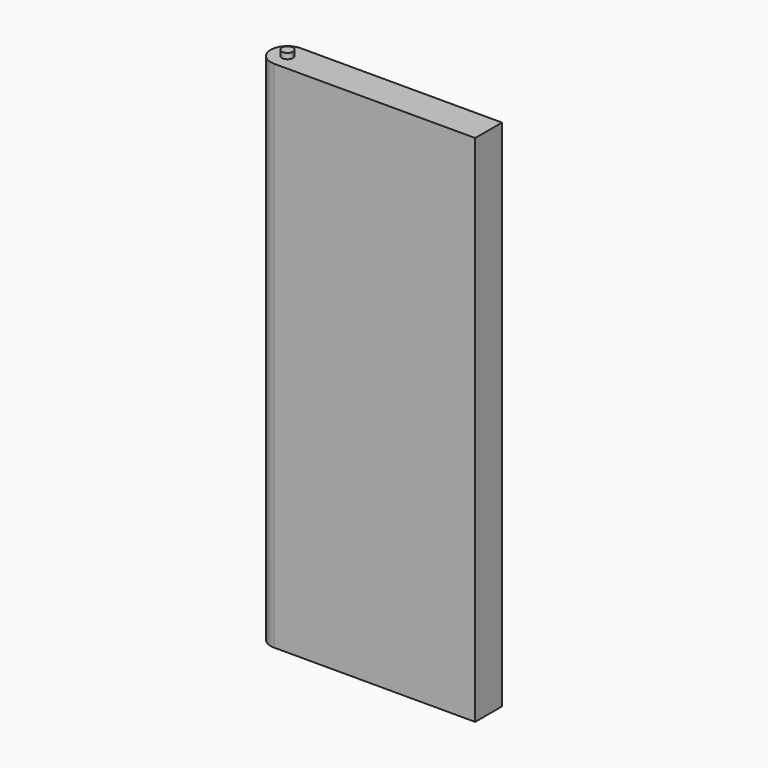
from build123d import *

# Parameters (mm, degrees)
F0_W     = 990.6
F0_H     = 152.4
F1_DEPTH = 2336.8
F3_DEPTH = 25.4
F5_DEPTH = 25.4
F7_DEPTH = 2387.6


with BuildPart() as f1:
    # F0 (on Top) → F1 (new body)
    with BuildSketch(Plane.XY):
        with Locations((0, 104.140009)):
            Rectangle(F0_W, F0_H)
    extrude(amount=F1_DEPTH)

    # F2 (on face) → F3 (join)
    with BuildSketch(Plane.XY.offset(2336.8)):
        with BuildLine():
            Line((-419.1, 104.140009), (-419.1, 129.540009))
            ThreePointArc((-419.1, 129.540009), (-437.060512, 122.100521), (-444.5, 104.140009))
            Line((-444.5, 104.140009), (-419.1, 104.140009))
        make_face()
        with BuildLine():
            ThreePointArc((-393.7, 104.140009), (-401.139488, 122.100521), (-419.1, 129.540009))
            Line((-419.1, 129.540009), (-419.1, 104.140009))
            Line((-419.1, 104.140009), (-444.5, 104.140009))
            ThreePointArc((-444.5, 104.140009), (-419.1, 78.740009), (-393.7, 104.140009))
        make_face()
    extrude(amount=F3_DEPTH)

    # F4 (on face) → F5 (join)
    with BuildSketch(Plane(origin=(0, 0, 0), x_dir=(1, 0, 0), z_dir=(0, 0, -1))):
        with BuildLine():
            Line((-419.1, -104.140009), (-419.1, -78.740009))
            ThreePointArc((-419.1, -78.740009), (-437.060512, -86.179497), (-444.5, -104.140009))
            Line((-444.5, -104.140009), (-419.1, -104.140009))
        make_face()
        with BuildLine():
            ThreePointArc((-393.7, -104.140009), (-401.139488, -86.179497), (-419.1, -78.740009))
            Line((-419.1, -78.740009), (-419.1, -104.140009))
            Line((-419.1, -104.140009), (-444.5, -104.140009))
            ThreePointArc((-444.5, -104.140009), (-419.1, -129.540009), (-393.7, -104.140009))
        make_face()
    extrude(amount=F5_DEPTH)

    # F6 (on face) → F7 (cut)
    with BuildSketch(Plane.XY.offset(2336.8)):
        with BuildLine():
            Line((-495.3, 27.940009), (-419.1, 27.940009))
            ThreePointArc((-419.1, 27.940009), (-472.981537, 50.258472), (-495.3, 104.140009))
            Line((-495.3, 104.140009), (-495.3, 27.940009))
        make_face()
        with BuildLine():
            ThreePointArc((-495.3, 104.140009), (-472.981537, 158.021546), (-419.1, 180.340009))
            Line((-419.1, 180.340009), (-495.3, 180.340009))
            Line((-495.3, 180.340009), (-495.3, 104.140009))
        make_face()
    extrude(amount=-F7_DEPTH, mode=Mode.SUBTRACT)


solid = f1.part
